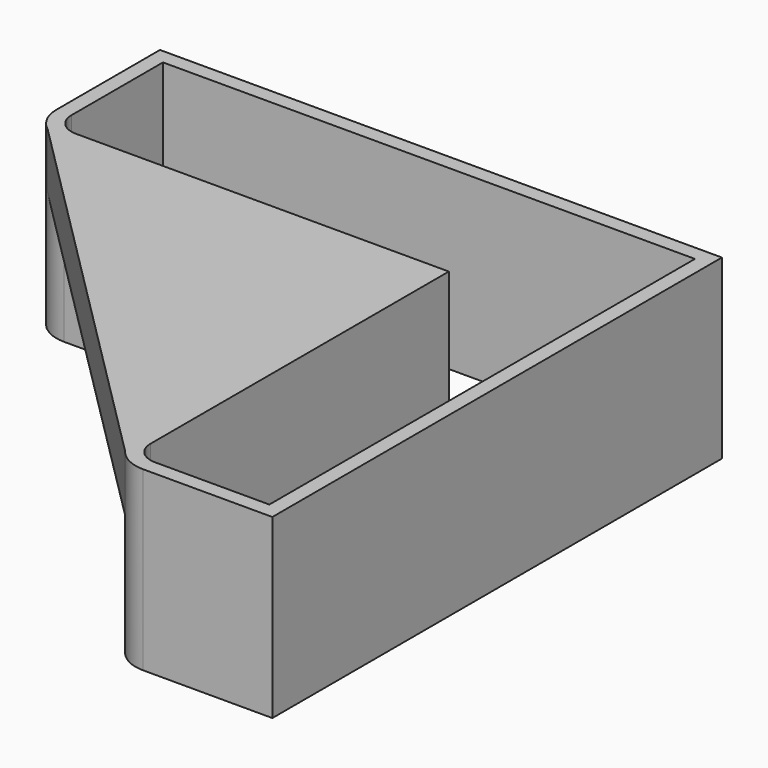
from build123d import *

# Parameters (mm, degrees)
PAD083_DEPTH            = 18.9
PAD084_DEPTH            = 7.8
FILLET023_R             = 2
BODY070_ROLL_ANGLE      = 180
BODY070_PLACEMENT_ANGLE = -90


with BuildPart() as part:
    # Sketch133 → Pad083 (new body)
    with BuildSketch(Plane.XY):
        with BuildLine():
            Line((-30, 30), (-30, -30))
            Line((-30, -30), (30, -30))
            Line((30, -30), (30, -16.2))
            ThreePointArc((30, -16.2), (28.828427, -13.371573), (26, -12.2))
            Line((26, -12.2), (-12.2, -12.2))
            Line((-12.2, -12.2), (-12.2, 26))
            ThreePointArc((-12.2, 26), (-13.371573, 28.828427), (-16.2, 30))
            Line((-16.2, 30), (-30, 30))
        make_face()
        with BuildLine():
            Line((-28.4, 28.4), (-16.2, 28.4))
            ThreePointArc((-13.8, 26), (-14.502944, 27.697056), (-16.2, 28.4))
            Line((-13.8, 26), (-13.8, -13.8))
            Line((-13.8, -13.8), (26, -13.8))
            ThreePointArc((28.4, -16.2), (27.697056, -14.502944), (26, -13.8))
            Line((28.4, -16.2), (28.4, -28.4))
            Line((28.4, -28.4), (-28.4, -28.4))
            Line((-28.4, -28.4), (-28.4, 28.4))
        make_face(mode=Mode.SUBTRACT)
    extrude(amount=PAD083_DEPTH)

    # Sketch134 → Pad084 (join)
    with BuildSketch(Plane.XY):
        Polygon((-13.8, 29.2), (-13.8, -13.8), (29.2, -13.8), align=None)
    extrude(amount=PAD084_DEPTH)

    # Fillet023
    fillet023_edges = [part.edges().sort_by_distance(p)[0] for p in [
        (7.7, 7.7, 7.8),
    ]]
    fillet(fillet023_edges, radius=FILLET023_R)


with BuildPart() as part_1:
    # Body070 roll: moved
    add(part.part.rotate(Axis((0, 0, 0), (1, 0, 0)), BODY070_ROLL_ANGLE))


with BuildPart() as part_2:
    # Body070 placement: moved
    add(part_1.part.moved(Location((115.5, 115.5, 78.1))).rotate(Axis((115.5, 115.5, 78.1), (0, 0, 1)), BODY070_PLACEMENT_ANGLE))


solid = part_2.part
